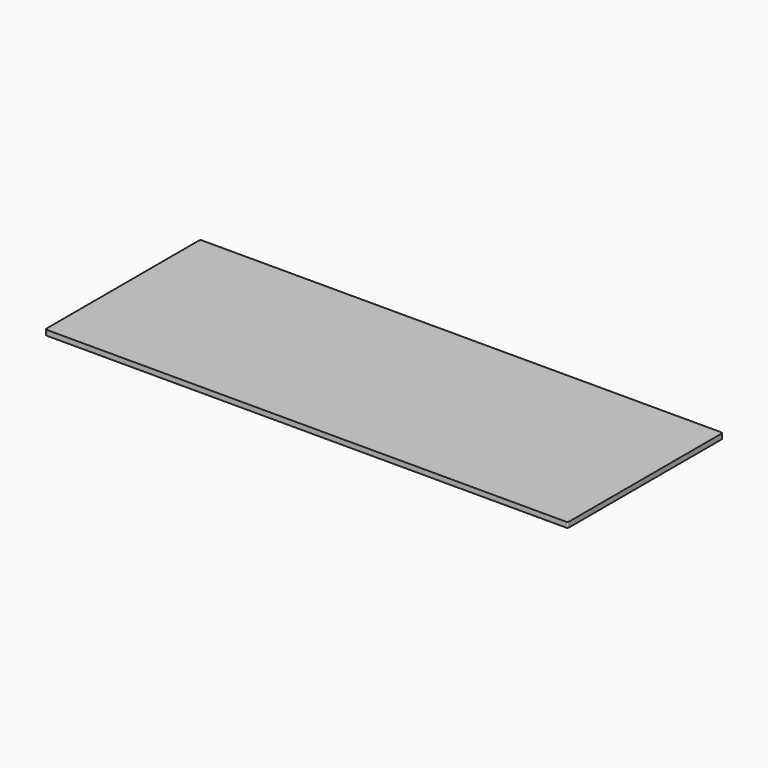
from build123d import *

# Parameters (mm, degrees)
SKETCH_W    = 302
SKETCH_H    = 112
PAD_DEPTH   = 3
FILLET_R    = 1
FILLET001_R = 1
FILLET002_R = 1
FILLET003_R = 1


with BuildPart() as part:
    # Sketch → Pad (new body)
    with BuildSketch(Plane.XY):
        Rectangle(SKETCH_W, SKETCH_H)
    extrude(amount=PAD_DEPTH)

    # Fillet
    fillet_edges = [part.edges().sort_by_distance(p)[0] for p in [
        (-151, -56, 1.5),
    ]]
    fillet(fillet_edges, radius=FILLET_R)

    # Fillet001
    fillet001_edges = [part.edges().sort_by_distance(p)[0] for p in [
        (151, -56, 1.5),
    ]]
    fillet(fillet001_edges, radius=FILLET001_R)

    # Fillet002
    fillet002_edges = [part.edges().sort_by_distance(p)[0] for p in [
        (151, 56, 1.5),
    ]]
    fillet(fillet002_edges, radius=FILLET002_R)

    # Fillet003
    fillet003_edges = [part.edges().sort_by_distance(p)[0] for p in [
        (-151, 56, 1.5),
    ]]
    fillet(fillet003_edges, radius=FILLET003_R)


solid = part.part
